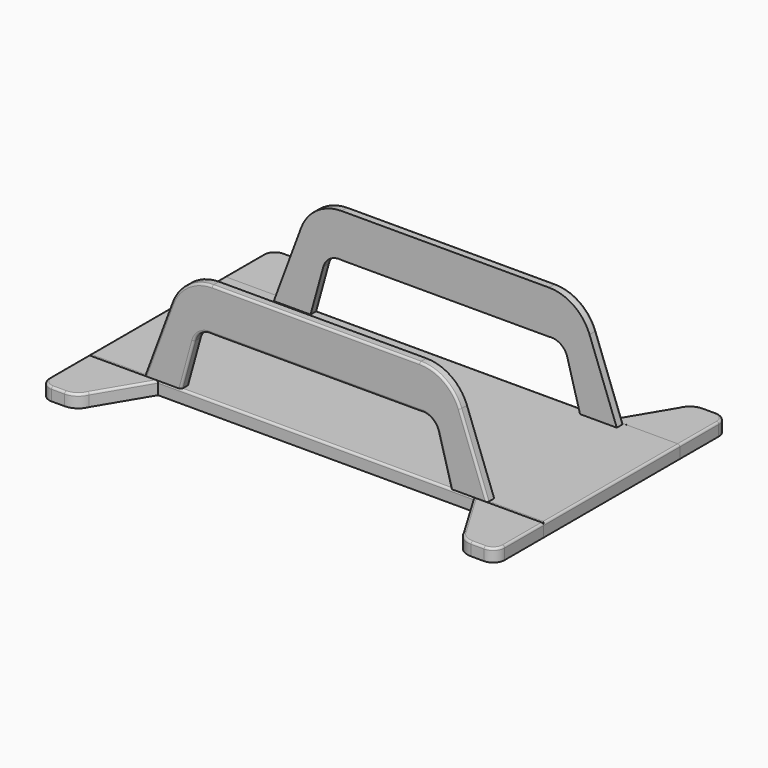
from build123d import *

# Parameters (mm, degrees)
F1_DEPTH = 2
F2_DEPTH = 20
F5_DEPTH = 3
F6_R     = 0.5
F6_2_R   = 0.5
F7_R     = 0.5
F7_2_R   = 0.5
F7_3_R   = 0.5
F7_4_R   = 0.5
F7_5_R   = 0.5
F9_DEPTH = 0.1


with BuildPart() as f1:
    # F0 (on Front) → F1 (new body)
    with BuildSketch(Plane.XZ):
        with BuildLine():
            Line((31.6586345434, 1.5), (40.2928069234, 1.5))
            Line((40.2928069234, 1.5), (33.8961698165, 18.6841922669))
            ThreePointArc((33.8961698165, 18.6841922669), (30.1676737383, 23.4886986324), (24.3642989581, 25.3068860765))
            Line((24.3642989581, 25.3068860765), (0, 25.3068860765))
            Line((0, 25.3068860765), (-24.3642989581, 25.3068860765))
            ThreePointArc((-24.3642989581, 25.3068860765), (-30.1676737383, 23.4886986324), (-33.8961698165, 18.6841922669))
            Line((-33.8961698165, 18.6841922669), (-40.2928069234, 1.5))
            Line((-40.2928069234, 1.5), (-31.6586345434, 1.5))
            Line((-31.6586345434, 1.5), (-28.6606989536, 12.3438404575))
            ThreePointArc((-28.6606989536, 12.3438404575), (-27.0417999529, 14.5543863096), (-24.3642989581, 15.136052332))
            Line((-24.3642989581, 15.136052332), (0, 15.136052332))
            Line((0, 15.136052332), (24.3642989581, 15.136052332))
            ThreePointArc((24.3642989581, 15.136052332), (27.0417999529, 14.5543863096), (28.6606989536, 12.3438404575))
            Line((28.6606989536, 12.3438404575), (31.6586345434, 1.5))
        make_face()
    extrude(amount=-F1_DEPTH)


with BuildPart() as f2:
    # F0 (on Front) → F2 (new body)
    with BuildSketch(Plane.XZ):
        Polygon((-53.5, -1.5), (53.5, -1.5), (53.5, 1.5), (40.2928069234, 1.5), (31.6586345434, 1.5), (-31.6586345434, 1.5), (-40.2928069234, 1.5), (-53.5, 1.5), align=None)
    extrude(amount=-F2_DEPTH)



with BuildPart() as f2_1:
    add(f2.part)
    # F3: F1, F2 across face
    add(f1.part.mirror(Plane(origin=(0, 20, 0), x_dir=(1, 0, 0), z_dir=(0, 1, 0))))
    add(f2.part.mirror(Plane(origin=(0, 20, 0), x_dir=(1, 0, 0), z_dir=(0, 1, 0))))

    # F6#2
    f6_2_edges = [f2_1.edges().sort_by_distance(p)[0] for p in [
        (-53.5, 20, 1.5),
    ]]
    fillet(f6_2_edges, radius=F6_2_R)

    # F7#2
    f7_2_edges = [f2_1.edges().sort_by_distance(p)[0] for p in [
        (0, 40, 1.5),
        (-30.159667, 40, 6.92192),
        (-37.094488, 40, 10.092096),
        (53.5, 20, 1.5),
        (0.25, 0, 1.5),
    ]]
    fillet(f7_2_edges, radius=F7_2_R)

    # F8 (on face) → F9 (join)
    with BuildSketch(Plane.XY.offset(1.5)):
        Polygon((-53, 31.7278392613), (-53, 20.25), (-53, 8.7876711041), (53, 8.7876711041), (53, 31.7278392613), align=None)
    extrude(amount=-F9_DEPTH)


with BuildPart() as f5:
    # F4 (on face) → F5 (new body)
    with BuildSketch(Plane.XY.offset(1.5)):
        with BuildLine():
            Line((-53.5, 51.4421015978), (-53.5, 40))
            Line((-53.5, 40.0000000001), (-37.0968580246, 40.001589805))
            Line((-37.0968580246, 40.0015898049), (-44.0106317401, 51.5759587288))
            ThreePointArc((-44.0106317401, 51.5759587288), (-45.4883027253, 53.4249418645), (-47.7502972833, 54.1218140166))
            Line((-47.7502972833, 54.1218140166), (-50.8202875812, 54.1218140166))
            ThreePointArc((-50.8202875812, 54.1218140166), (-52.7151304042, 53.3369444208), (-53.5, 51.4421015978))
        make_face()
    extrude(amount=-F5_DEPTH)

    # F7
    f7_edges = [f5.edges().sort_by_distance(p)[0] for p in [
        (-53.5, 45.721051, 1.5),
        (-52.71513, 53.336944, 1.5),
        (-49.285292, 54.121814, 1.5),
        (-45.488303, 53.424942, 1.5),
        (-40.553745, 45.788774, 1.5),
    ]]
    fillet(f7_edges, radius=F7_R)


with BuildPart() as f5b:
    # F4 (on face) → F5, piece 2 (new body)
    with BuildSketch(Plane.XY.offset(1.5)):
        with BuildLine():
            Line((37.0968580246, 40.001589805), (53.5, 40.0000000001))
            Line((53.5, 40), (53.5, 51.4421015978))
            ThreePointArc((53.5, 51.4421015978), (52.7151304042, 53.3369444208), (50.8202875812, 54.1218140166))
            Line((50.8202875812, 54.1218140166), (47.7502972833, 54.1218140166))
            ThreePointArc((47.7502972833, 54.1218140166), (45.4883027253, 53.4249418645), (44.0106317401, 51.5759587288))
            Line((44.0106317401, 51.5759587288), (37.0968580246, 40.0015898049))
        make_face()
    extrude(amount=-F5_DEPTH)

    # F7#3
    f7_3_edges = [f5b.edges().sort_by_distance(p)[0] for p in [
        (53.5, 45.721051, 1.5),
        (52.71513, 53.336944, 1.5),
        (49.285292, 54.121814, 1.5),
        (45.488303, 53.424942, 1.5),
        (40.553745, 45.788774, 1.5),
    ]]
    fillet(f7_3_edges, radius=F7_3_R)


with BuildPart() as f5c:
    # F4 (on face) → F5, piece 3 (new body)
    with BuildSketch(Plane.XY.offset(1.5)):
        with BuildLine():
            Line((53.5, -11.4421015978), (53.5, 0))
            Line((53.5, 0), (37.0968580246, -0.0015898049))
            Line((37.0968580246, -0.0015898049), (44.0106317401, -11.5759587288))
            ThreePointArc((44.0106317401, -11.5759587288), (45.4883027253, -13.4249418645), (47.7502972833, -14.1218140166))
            Line((47.7502972833, -14.1218140166), (50.8202875812, -14.1218140166))
            ThreePointArc((50.8202875812, -14.1218140166), (52.7151304042, -13.3369444208), (53.5, -11.4421015978))
        make_face()
    extrude(amount=-F5_DEPTH)

    # F7#4
    f7_4_edges = [f5c.edges().sort_by_distance(p)[0] for p in [
        (53.5, -5.721051, 1.5),
        (40.553745, -5.788774, 1.5),
    ]]
    fillet(f7_4_edges, radius=F7_4_R)


with BuildPart() as f5d:
    # F4 (on face) → F5, piece 4 (new body)
    with BuildSketch(Plane.XY.offset(1.5)):
        with BuildLine():
            Line((-37.0968580246, -0.0015898049), (-53.5, 0))
            Line((-53.5, 0), (-53.5, -11.4421015978))
            ThreePointArc((-53.5, -11.4421015978), (-52.7151304042, -13.3369444208), (-50.8202875812, -14.1218140166))
            Line((-50.8202875812, -14.1218140166), (-47.7502972833, -14.1218140166))
            ThreePointArc((-47.7502972833, -14.1218140166), (-45.4883027253, -13.4249418645), (-44.0106317401, -11.5759587288))
            Line((-44.0106317401, -11.5759587288), (-37.0968580246, -0.0015898049))
        make_face()
    extrude(amount=-F5_DEPTH)

    # F6
    f6_edges = [f5d.edges().sort_by_distance(p)[0] for p in [
        (-40.553745, -5.788774, 1.5),
        (-45.488303, -13.424942, 1.5),
        (-49.285292, -14.121814, 1.5),
        (-52.71513, -13.336944, 1.5),
        (-53.5, -5.721051, 1.5),
    ]]
    fillet(f6_edges, radius=F6_R)


with BuildPart() as f1_1:
    add(f1.part)

    # F7#5
    f7_5_edges = [f1_1.edges().sort_by_distance(p)[0] for p in [
        (37.094488, 0, 10.092096),
        (30.159667, 0, 6.92192),
        (27.0418, 0, 14.554386),
        (0, 0, 15.136052),
        (-30.159667, 0, 6.92192),
        (-27.0418, 0, 14.554386),
    ]]
    fillet(f7_5_edges, radius=F7_5_R)


solid = Compound([f2_1.part, f5.part, f5b.part, f5c.part, f5d.part, f1_1.part])
